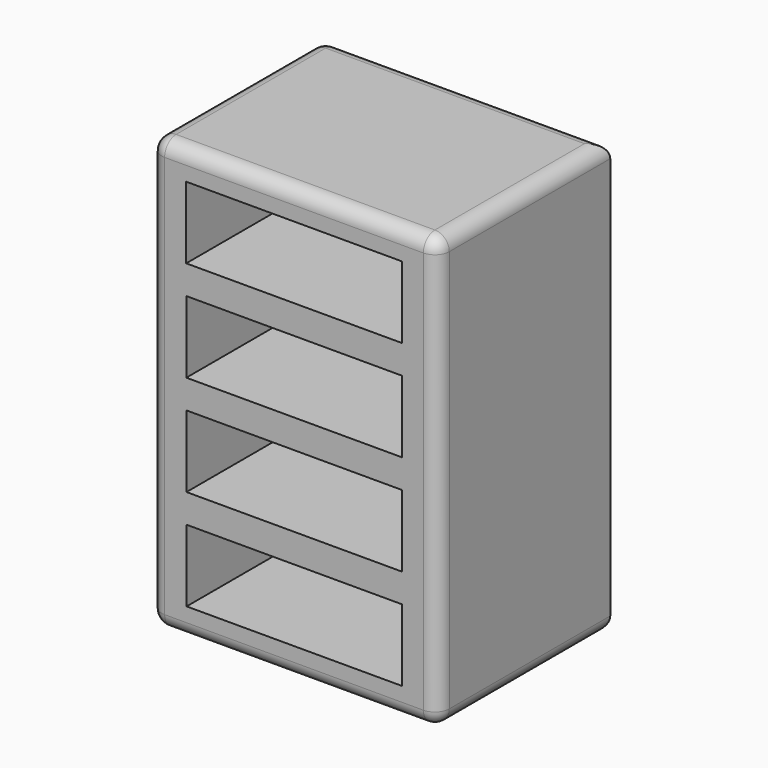
from build123d import *

# Parameters (mm, degrees)
F0_W     = 101.6
F0_H     = 76.2
F1_DEPTH = 152.4
F2_W     = 76.2
F2_H     = 25.4
F3_DEPTH = 50.8
F4_R     = 5.08


with BuildPart() as f1:
    # F0 (on Top) → F1 (new body)
    with BuildSketch(Plane.XY):
        with Locations((0.713926, -12.174402)):
            Rectangle(F0_W, F0_H)
    extrude(amount=F1_DEPTH)

    # F2 (on face) → F3 (cut)
    with BuildSketch(Plane.XZ.offset(50.274402)):
        with Locations((0.713926, 129.54)):
            Rectangle(F2_W, F2_H)
        with Locations((0.762346, 93.980033)):
            Rectangle(F2_W, F2_H)
        with Locations((0.810766, 58.420066)):
            Rectangle(F2_W, F2_H)
        with Locations((0.859186, 22.860099)):
            Rectangle(F2_W, F2_H)
    extrude(amount=-F3_DEPTH, mode=Mode.SUBTRACT)

    # F4
    f4_edges = [f1.edges().sort_by_distance(p)[0] for p in [
        (-50.086074, -12.174402, 152.4),
        (51.513926, -12.174402, 152.4),
        (0.713926, 25.925598, 152.4),
        (0.713926, -50.274402, 152.4),
        (51.513926, -50.274402, 76.2),
        (-50.086074, -50.274402, 76.2),
        (-50.086074, 25.925598, 76.2),
        (0.713926, -50.274402, 0),
        (51.513926, -12.174402, 0),
        (0.713926, 25.925598, 0),
        (-50.086074, -12.174402, 0),
    ]]
    fillet(f4_edges, radius=F4_R)


solid = f1.part
